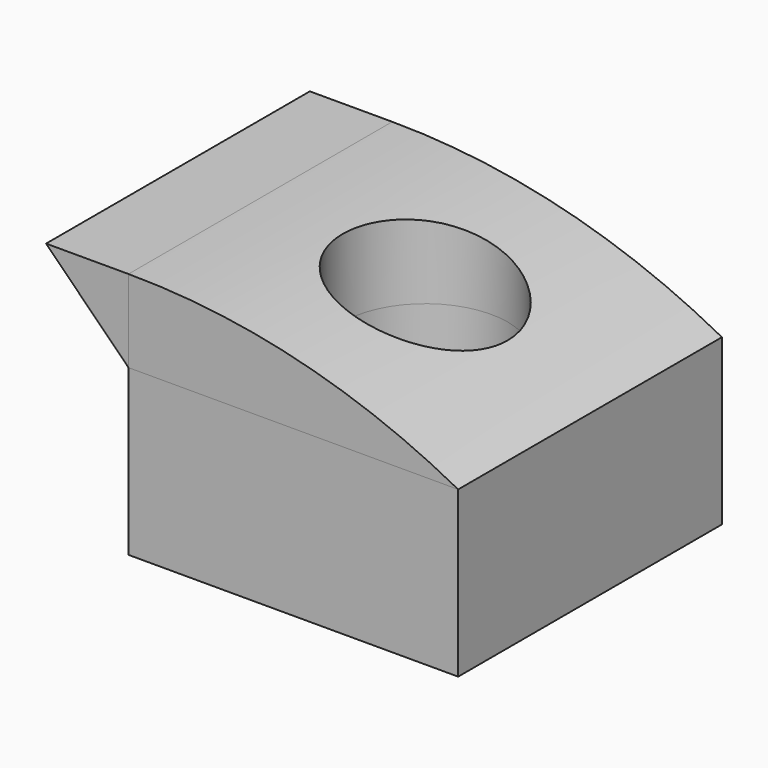
from build123d import *

# Parameters (mm, degrees)
F0_W     = 25.4
F0_H     = 25.4
F0_R     = 6.35
F1_DEPTH = 12.7
F2_DEPTH = 6.35
F3_DEPTH = 6.35
F5_DEPTH = 25.4
F7_DEPTH = 25.4


with BuildPart() as f1:
    # F0 (on Top) → F1 (new body)
    with BuildSketch(Plane.XY):
        with Locations((1.1130588174, -14.3094803207)):
            Rectangle(F0_W, F0_H)
        with Locations((1.1130588174, -14.3094803207)):
            Circle(F0_R, mode=Mode.SUBTRACT)
    extrude(amount=F1_DEPTH)


with BuildPart() as f2:
    # F2 (new): a face of the model
    f2_faces = [f1.part.faces().sort_by_distance(p)[0] for p in [
        (1.1130588174, -1.9686905655, 12.7),
    ]]
    extrude(f2_faces, amount=F2_DEPTH)


with BuildPart() as f3:
    # F3 (new): a face of the model
    f3_faces = [f2.part.faces().sort_by_distance(p)[0] for p in [
        (-11.5869411826, -14.3094803207, 15.875),
    ]]
    extrude(f3_faces, amount=F3_DEPTH)

    # F4 (on face) → F5 (cut)
    with BuildSketch(Plane(origin=(0, -1.6094803207, 0), x_dir=(-1, 0, 0), z_dir=(0, 1, 0))):
        Polygon((17.9369411826, 19.05), (11.5869411826, 12.7), (17.9369411826, 12.7), align=None)
    extrude(amount=-F5_DEPTH, mode=Mode.SUBTRACT)


with BuildPart() as f2_1:
    add(f2.part)

    # F6 (on face) → F7 (cut)
    with BuildSketch(Plane(origin=(0, -1.6094803207, 0), x_dir=(-1, 0, 0), z_dir=(0, 1, 0))):
        with BuildLine():
            ThreePointArc((-13.8130588174, 12.7), (-1.5039191787, 17.4384414453), (11.5869411826, 19.05))
            Line((11.5869411826, 19.05), (-13.8130588174, 19.05))
            Line((-13.8130588174, 19.05), (-13.8130588174, 12.7))
        make_face()
    extrude(amount=-F7_DEPTH, mode=Mode.SUBTRACT)


solid = Compound([f1.part, f3.part, f2_1.part])
